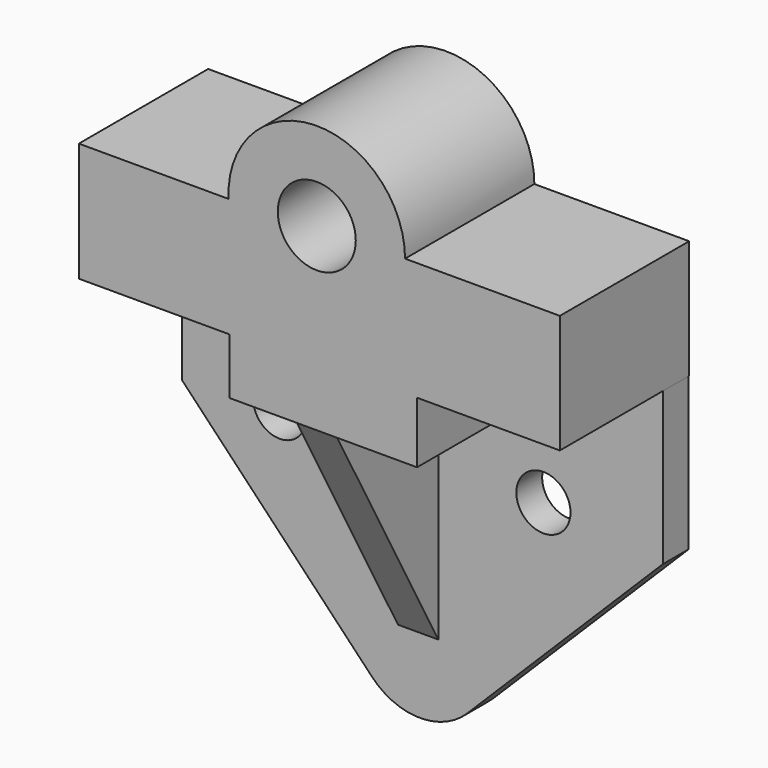
from build123d import *

# Parameters (mm, degrees)
F0_R     = 12.254349
F1_DEPTH = 50.8
F2_R     = 8.291725
F2_R_2   = 8.507614
F3_DEPTH = 10.16
F5_DEPTH = 6.35


with BuildPart() as f1:
    # F0 (on Front) → F1 (new body)
    with BuildSketch(Plane.XZ):
        with BuildLine():
            Line((76.394036, 56.497514), (27.739568, 56.497514))
            ThreePointArc((27.739568, 56.497514), (-0.754078, 84.226831), (-27.69857, 54.989916))
            Line((-27.69857, 54.989916), (-74.78258, 54.989916))
            Line((-74.78258, 54.989916), (-74.78258, 17.613143))
            Line((-74.78258, 17.613143), (-27.358174, 17.613143))
            Line((-27.358174, 17.613143), (-27.358174, 0))
            Line((-27.358174, 0), (0, 0))
            Line((0, 0), (31.513482, 0))
            Line((31.513482, 0), (31.513482, 19.248471))
            Line((31.513482, 19.248471), (76.394036, 19.248471))
            Line((76.394036, 19.248471), (76.394036, 56.497514))
        make_face()
        with Locations((0, 56.497514)):
            Circle(F0_R, mode=Mode.SUBTRACT)
        with BuildLine():
            Line((76.394036, 56.497514), (27.739568, 56.497514))
            ThreePointArc((27.739568, 56.497514), (-0.754078, 84.226831), (-27.69857, 54.989916))
            Line((-27.69857, 54.989916), (-74.78258, 54.989916))
            Line((-74.78258, 54.989916), (-74.78258, 17.613143))
            Line((-74.78258, 17.613143), (-27.358174, 17.613143))
            Line((-27.358174, 17.613143), (-27.358174, 0))
            Line((-27.358174, 0), (0, 0))
            Line((0, 0), (31.513482, 0))
            Line((31.513482, 0), (31.513482, 19.248471))
            Line((31.513482, 19.248471), (76.394036, 19.248471))
            Line((76.394036, 19.248471), (76.394036, 56.497514))
        make_face()
        with Locations((0, 56.497514)):
            Circle(F0_R, mode=Mode.SUBTRACT)
    extrude(amount=F1_DEPTH)

    # F2 (on Front) → F3 (join)
    with BuildSketch(Plane.XZ):
        with BuildLine():
            Line((-74.914232, -26.959702), (-15.175805, -89.64081))
            ThreePointArc((-15.175805, -89.64081), (-0.268287, -96.139845), (14.800677, -90.024463))
            Line((14.800677, -90.024463), (76.250419, -28.766453))
            Line((76.250419, -28.766453), (76.250419, 21.220267))
            Line((76.250419, 21.220267), (-74.914232, 21.220267))
            Line((-74.914232, 21.220267), (-74.914232, -26.959702))
        make_face()
        with Locations((-44.199497, -24.952203)):
            Circle(F2_R, mode=Mode.SUBTRACT)
        with Locations((38.710192, -23.948461)):
            Circle(F2_R_2, mode=Mode.SUBTRACT)
    extrude(amount=F3_DEPTH)

    # F4 (on Right) → F5 (join, symmetric)
    with BuildSketch(Plane.YZ):
        Polygon((-10.954797, 0), (-50.737962, 0), (-10.954797, -72.062641), align=None)
    extrude(amount=F5_DEPTH, both=True)


solid = f1.part
